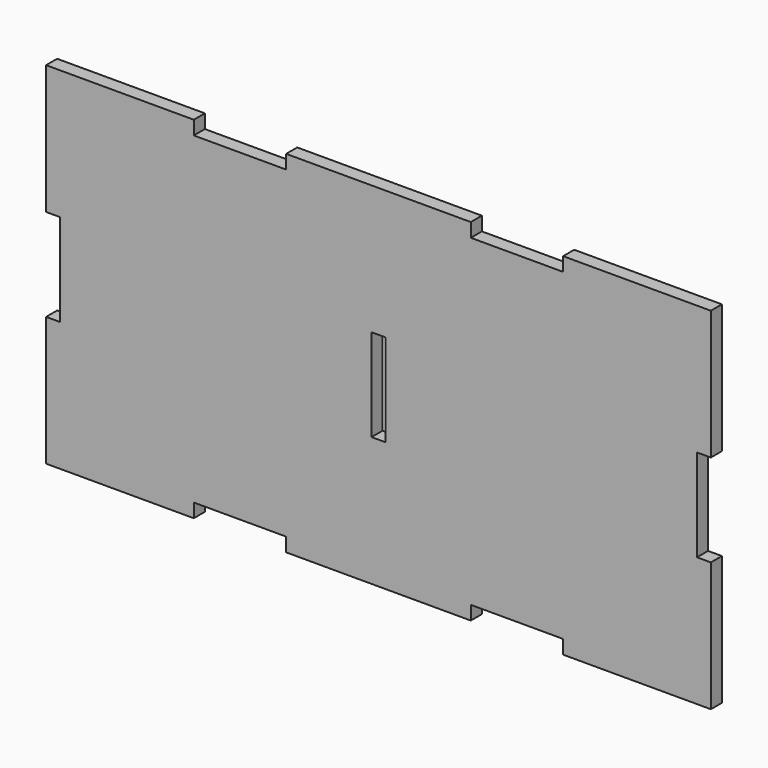
from build123d import *

# Parameters (mm, degrees)
F0_W     = 3
F0_H     = 20
F1_DEPTH = 3


with BuildPart() as f1:
    # F0 (on Front) → F1 (new body)
    with BuildSketch(Plane.XZ):
        Polygon((40, -38), (72, -38), (72, -10), (69, -10), (69, 10), (72, 10), (72, 38), (40, 38), (40, 35), (20, 35), (20, 38), (-20, 38), (-20, 35), (-40, 35), (-40, 38), (-72, 38), (-72, 10), (-69, 10), (-69, -10), (-72, -10), (-72, -38), (-40, -38), (-40, -35), (-20, -35), (-20, -38), (20, -38), (20, -35), (40, -35), align=None)
        Rectangle(F0_W, F0_H, mode=Mode.SUBTRACT)
    extrude(amount=F1_DEPTH)


solid = f1.part
